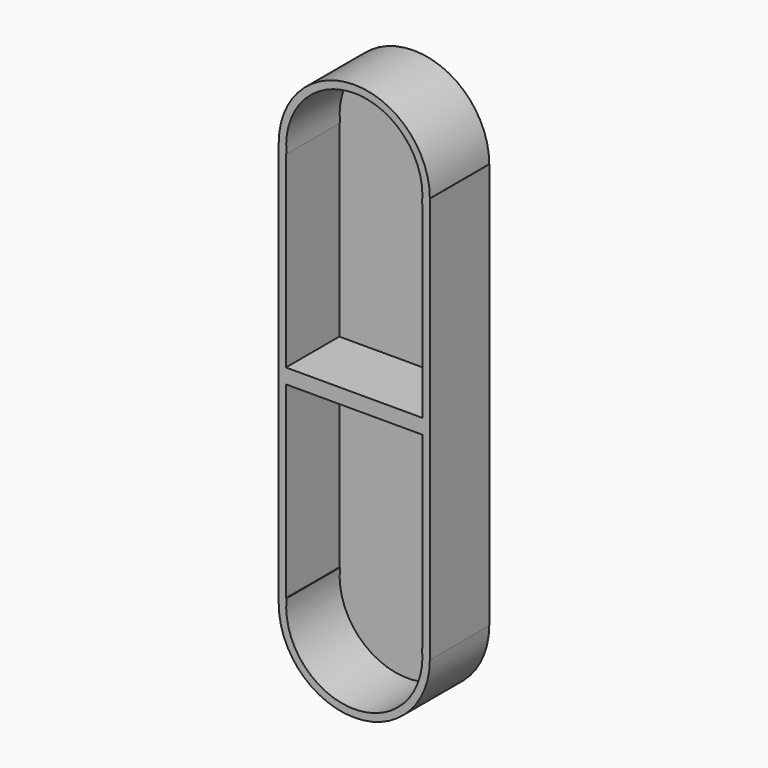
from build123d import *

# Parameters (mm, degrees)
F1_DEPTH = 25.4
F3_T     = -2.54


with BuildPart() as f1:
    # F0 (on Front) → F1 (new body)
    with BuildSketch(Plane.XZ):
        Polygon((-24.2911779621, 13.655773364), (-24.3787635118, 13.655773364), (-24.3787635118, -55.814538151), (27.4948440492, -55.814538151), (27.4948440492, 13.655773364), (27.4072584995, 13.655773364), align=None)
        with BuildLine():
            ThreePointArc((27.4072584995, 13.655773364), (1.5580402687, 39.5049915948), (-24.2911779621, 13.655773364))
            Line((-24.2911779621, 13.655773364), (27.4072584995, 13.655773364))
        make_face()
    extrude(amount=F1_DEPTH)

    # F3
    f3_openings = [f1.faces().sort_by_distance(p)[0] for p in [
        (1.55804, -25.4, -10.770056),
    ]]
    offset(amount=F3_T, openings=f3_openings, kind=Kind.INTERSECTION)

    # F4: F1 across face


with BuildPart() as f1_1:
    add(f1.part)
    add(f1.part.mirror(Plane(origin=(1.5580402687, -12.7, -55.814538151), x_dir=(1, 0, 0), z_dir=(0, 0, -1))))


solid = f1_1.part
